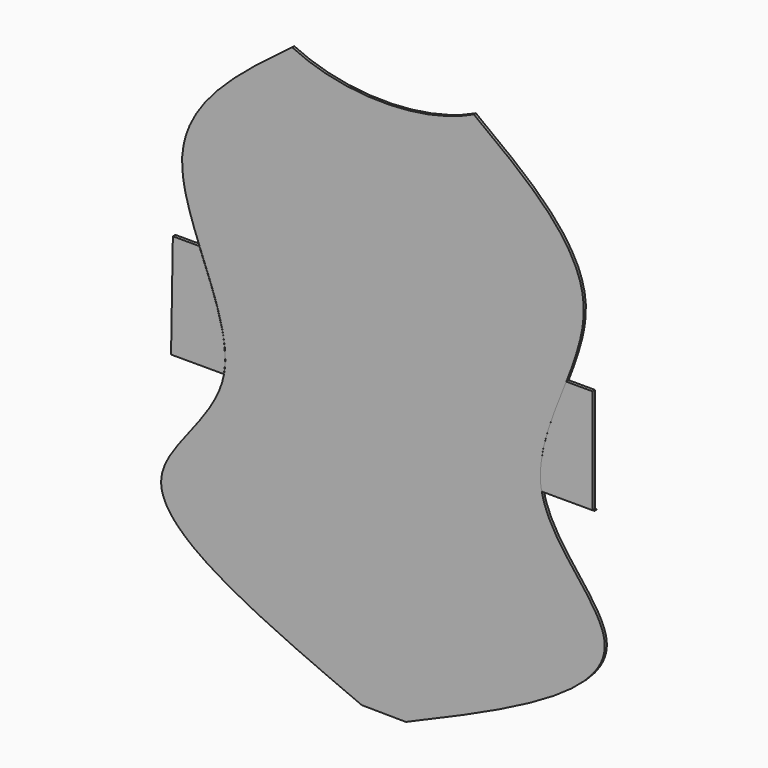
from build123d import *

# Parameters (mm, degrees)
F1_DEPTH = 0.3175
F2_DEPTH = 0.381


with BuildPart() as f1:
    # F0 (on Front) → F1 (new body, symmetric)
    with BuildSketch(Plane.XZ):
        with BuildLine():
            add(Edge.make_bspline(
                [(-22.9008918932, 56.2476531154), (-10.537274087, 50.2615567322), (7.8029912938, 50.0217043714), (20.7750153121, 56.2476531154)],
                knots=[0, 0, 0, 0, 43.6759072053, 43.6759072053, 43.6759072053, 43.6759072053], degree=3))
            add(Edge.make_bspline(
                [(-22.9008918932, 56.2476531154), (-35.9362598444, 46.5072653375), (-54.3591093121, 32.7412022341), (-47.4467227812, 12.8829538034), (-45.1502431526, 6.9859560012)],
                knots=[0, 0, 0, 0, 0.2459567395, 0.3476099795, 0.3476099795, 0.3476099795, 0.3476099795], degree=3))
            Line((-45.1502431526, 6.9859560012), (43.03002249, 6.9859560012))
            add(Edge.make_bspline(
                [(20.7750153121, 56.2476531154), (33.8197260221, 46.5002841694), (52.227050448, 32.745598424), (45.3242890236, 12.8831073765), (43.03002249, 6.9859560012)],
                knots=[0, 0, 0, 0, 0.2461330225, 0.3478414541, 0.3478414541, 0.3478414541, 0.3478414541], degree=3))
        make_face()
        with BuildLine():
            Line((43.03002249, 6.9859560012), (-45.1502431526, 6.9859560012))
            add(Edge.make_bspline(
                [(-45.1502431526, 6.9859560012), (-41.7823220091, -1.662334771), (-37.8228089863, -10.503671565), (-39.238193137, -18.1778215221)],
                knots=[0.3476099795, 0.3476099795, 0.3476099795, 0.3476099795, 0.4966903773, 0.4966903773, 0.4966903773, 0.4966903773], degree=3))
            Line((-39.238193137, -18.1778215221), (37.112316556, -18.1778215221))
            add(Edge.make_bspline(
                [(43.03002249, 6.9859560012), (39.6643640728, -1.6650864446), (35.7049395508, -10.5084842385), (37.112316556, -18.1778215221)],
                knots=[0.3478414541, 0.3478414541, 0.3478414541, 0.3478414541, 0.4970463671, 0.4970463671, 0.4970463671, 0.4970463671], degree=3))
        make_face()
        with BuildLine():
            Line((37.112316556, -18.1778215221), (-39.238193137, -18.1778215221))
            add(Edge.make_bspline(
                [(-39.238193137, -18.1778215221), (-41.2733057361, -29.2121115814), (-72.1432725438, -49.4548691202), (-30.225521453, -67.2562529331), (-6.160202813, -77.476170809)],
                knots=[0.4966903773, 0.4966903773, 0.4966903773, 0.4966903773, 0.7110458904, 1, 1, 1, 1], degree=3))
            Line((-6.160202813, -77.476170809), (4.4449903752, -77.5823235995))
            add(Edge.make_bspline(
                [(37.112316556, -18.1778215221), (39.135676473, -29.2038860323), (69.8887560982, -49.3665798991), (28.4678654147, -67.380430422), (4.4449903752, -77.5823235995)],
                knots=[0.4970463671, 0.4970463671, 0.4970463671, 0.4970463671, 0.7115555139, 1, 1, 1, 1], degree=3))
        make_face()
    extrude(amount=F1_DEPTH, both=True)

    # F0 (on Front) → F2 (join, symmetric)
    with BuildSketch(Plane.XZ):
        with BuildLine():
            add(Edge.make_bspline(
                [(-45.1502431526, 6.9859560012), (-41.7823220091, -1.662334771), (-37.8228089863, -10.503671565), (-39.238193137, -18.1778215221)],
                knots=[0.3476099795, 0.3476099795, 0.3476099795, 0.3476099795, 0.4966903773, 0.4966903773, 0.4966903773, 0.4966903773], degree=3))
            Line((-45.1502431526, 6.9859560012), (-51.5002431526, 6.9859560012))
            Line((-51.5002431526, 6.9859560012), (-51.938193137, -18.1778215221))
            Line((-51.938193137, -18.1778215221), (-39.238193137, -18.1778215221))
        make_face()
        with BuildLine():
            Line((49.38002249, 6.9859560012), (43.03002249, 6.9859560012))
            add(Edge.make_bspline(
                [(43.03002249, 6.9859560012), (39.6643640728, -1.6650864446), (35.7049395508, -10.5084842385), (37.112316556, -18.1778215221)],
                knots=[0.3478414541, 0.3478414541, 0.3478414541, 0.3478414541, 0.4970463671, 0.4970463671, 0.4970463671, 0.4970463671], degree=3))
            Line((37.112316556, -18.1778215221), (49.812316556, -18.1778215221))
            Line((49.812316556, -18.1778215221), (49.38002249, -18.1515775621))
            Line((49.38002249, -18.1515775621), (49.38002249, 6.9859560012))
        make_face()
    extrude(amount=F2_DEPTH, both=True)


solid = f1.part
